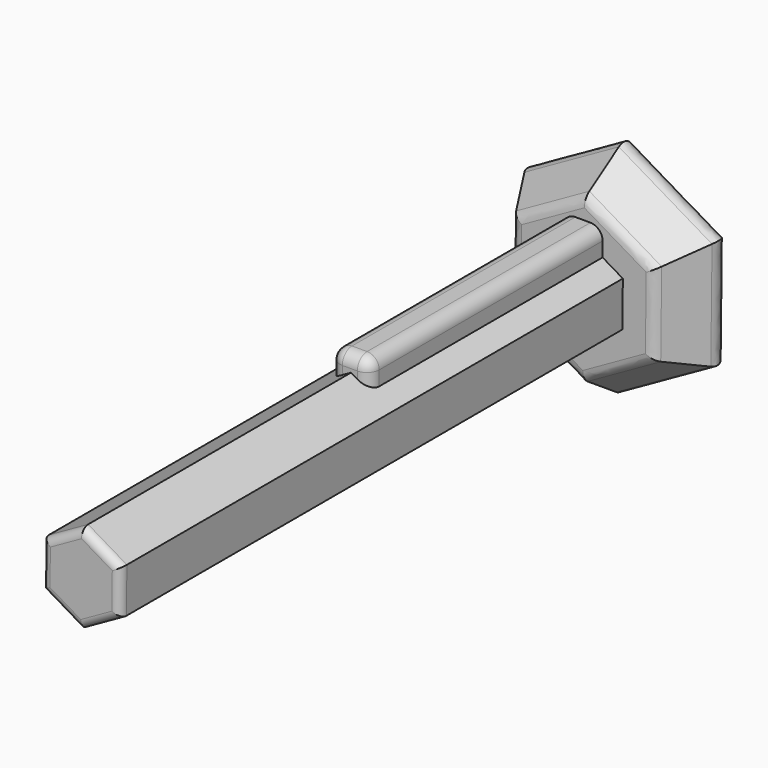
from build123d import *

# Parameters (mm, degrees)
F1_DEPTH = 77.5
F3_DEPTH = 15
F3_TAPER = -30
F4_W     = 9.7201652825
F4_H     = 81.3968237489
F5_DEPTH = 15
F6_R     = 3
F6_2_R   = 3
F7_R     = 2


with BuildPart() as f1:
    # F0 (on Front) → F1 (new body, symmetric)
    with BuildSketch(Plane.XZ):
        Polygon((-0.1256162198, -11.1232604972), (9.5702180536, -5.6704170861), (9.6958342734, 5.4528434111), (0.1256162198, 11.1232604972), (-9.5702180536, 5.6704170861), (-9.6958342734, -5.4528434111), align=None)
    extrude(amount=F1_DEPTH, both=True)

    # F7
    f7_edges = [f1.edges().sort_by_distance(p)[0] for p in [
        (-4.910725, -77.5, -8.288052),
        (4.722301, -77.5, -8.396839),
        (9.633026, -77.5, -0.108787),
        (4.910725, -77.5, 8.288052),
        (-4.722301, -77.5, 8.396839),
        (-9.633026, -77.5, 0.108787),
    ]]
    fillet(f7_edges, radius=F7_R)


with BuildPart() as f3:
    # F2 (on face) → F3 (new body)
    with BuildSketch(Plane(origin=(0, 77.5, 0), x_dir=(-1, 0, 0), z_dir=(0, 1, 0))):
        Polygon((0.2229186467, -19.7393472), (17.2062354526, -9.676620389), (16.983316806, 10.062726811), (-0.2229186467, 19.7393472), (-17.2062354526, 9.676620389), (-16.983316806, -10.062726811), align=None)
        Polygon((9.6958342734, -5.4528434111), (0.1256162198, -11.1232604972), (-9.5702180536, -5.6704170861), (-9.6958342734, 5.4528434111), (-0.1256162198, 11.1232604972), (9.5702180536, 5.6704170861), align=None, mode=Mode.SUBTRACT)
        Polygon((-9.5702180536, -5.6704170861), (0.1256162198, -11.1232604972), (9.6958342734, -5.4528434111), (9.5702180536, 5.6704170861), (-0.1256162198, 11.1232604972), (-9.6958342734, 5.4528434111), align=None)
    extrude(amount=F3_DEPTH, taper=F3_TAPER)

    # F6#2
    f6_2_edges = [f3.edges().sort_by_distance(p)[0] for p in [
        (12.625357, 92.5, -22.449456),
        (-13.129121, 92.5, -22.158608),
        (-25.754478, 92.5, 0.290848),
        (-12.625357, 92.5, 22.449456),
        (13.129121, 92.5, 22.158608),
        (25.754478, 92.5, -0.290848),
        (8.380199, 77.5, -14.901037),
        (-8.714577, 77.5, -14.707984),
        (-17.094776, 77.5, 0.193053),
        (-8.380199, 77.5, 14.901037),
        (8.714577, 77.5, 14.707984),
        (17.094776, 77.5, -0.193053),
    ]]
    fillet(f6_2_edges, radius=F6_2_R)


with BuildPart() as f5:
    # F4 (on Top) → F5 (new body)
    with BuildSketch(Plane.XY):
        with Locations((-0.1620021649, 46.2903873995)):
            Rectangle(F4_W, F4_H)
    extrude(amount=F5_DEPTH)

    # F6
    f6_edges = [f5.edges().sort_by_distance(p)[0] for p in [
        (-0.162002, 86.988799, 15),
        (-5.022085, 46.290387, 15),
        (-0.162002, 5.591976, 15),
        (4.69808, 46.290387, 15),
        (4.69808, 5.591976, 7.5),
        (4.69808, 86.988799, 7.5),
        (4.69808, 46.290387, 0),
        (-5.022085, 86.988799, 7.5),
        (-5.022085, 5.591976, 7.5),
        (-5.022085, 46.290387, 0),
    ]]
    fillet(f6_edges, radius=F6_R)


solid = Compound([f1.part, f3.part, f5.part])
